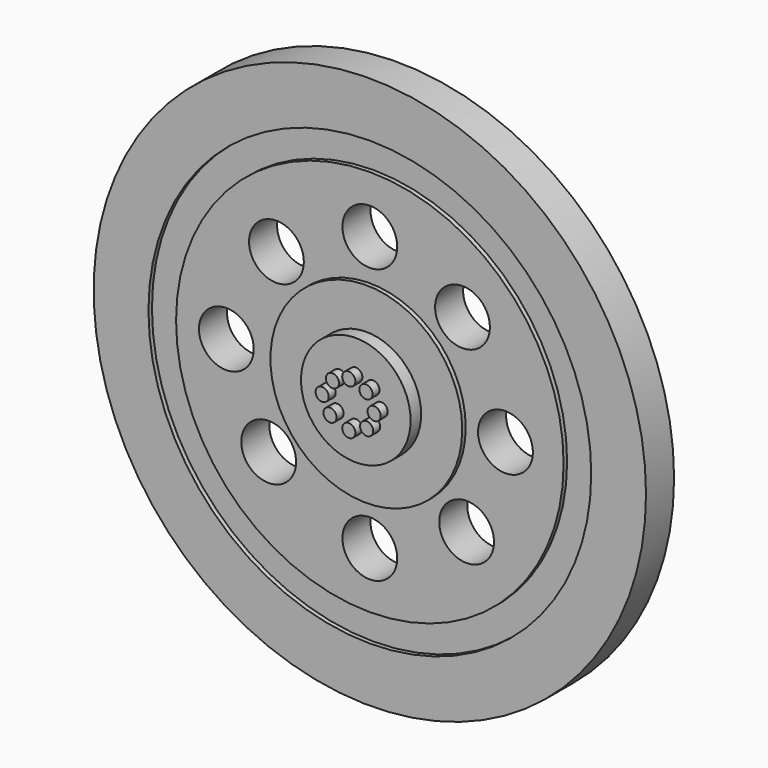
from build123d import *

# Parameters (mm, degrees)
F0_R      = 16.002
F1_DEPTH  = 2.032
F3_R      = 12.827
F3_R_2    = 11.2268
F4_DEPTH  = 0.254
F2_R      = 1.5875
F5_DEPTH  = 2.032
F6_R      = 5.55625
F7_DEPTH  = 0.254
F8_R      = 3.175
F9_DEPTH  = 0.762
F10_R     = 0.381
F11_DEPTH = 0.508


with BuildPart() as f1:
    # F0 (on Front) → F1 (new body)
    with BuildSketch(Plane.XZ):
        Circle(F0_R)
    extrude(amount=-F1_DEPTH)

    # F3 (on face) → F4 (cut)
    with BuildSketch(Plane.XZ):
        Circle(F3_R)
        Circle(F3_R_2, mode=Mode.SUBTRACT)
    extrude(amount=-F4_DEPTH, mode=Mode.SUBTRACT)

    # F2 (on face) → F5 (cut)
    with BuildSketch(Plane.XZ):
        with Locations((0, -7.9695228487)):
            Circle(F2_R)
        with Locations((-5.8604669757, -4.9584284425)):
            Circle(F2_R)
        with BuildLine():
            Line((-6.7264510825, 0), (-9.9014510825, 0))
            ThreePointArc((-9.9014510825, 0), (-8.3139510825, -1.5875), (-6.7264510825, 0))
        make_face()
        with BuildLine():
            ThreePointArc((-6.7264510825, 0), (-8.3139510825, 1.5875), (-9.9014510825, 0))
            Line((-9.9014510825, 0), (-6.7264510825, 0))
        make_face()
        with Locations((-5.4118158296, 5.3960969672)):
            Circle(F2_R)
        with Locations((0, 7.9223643988)):
            Circle(F2_R)
        with Locations((5.3672702052, 5.5701895617)):
            Circle(F2_R)
        with BuildLine():
            Line((6.2692415476, 0), (9.4442415476, 0))
            ThreePointArc((9.4442415476, 0), (7.8567415476, 1.5875), (6.2692415476, 0))
        make_face()
        with BuildLine():
            ThreePointArc((6.2692415476, 0), (7.8567415476, -1.5875), (9.4442415476, 0))
            Line((9.4442415476, 0), (6.2692415476, 0))
        make_face()
        with Locations((5.607039202, -5.3108036518)):
            Circle(F2_R)
    extrude(amount=-F5_DEPTH, mode=Mode.SUBTRACT)

    # F6 (on face) → F7 (join)
    with BuildSketch(Plane.XZ):
        Circle(F6_R)
    extrude(amount=F7_DEPTH)

    # F8 (on face) → F9 (join)
    with BuildSketch(Plane.XZ.offset(0.254)):
        Circle(F8_R)
    extrude(amount=F9_DEPTH)

    # F10 (on face) → F11 (join)
    with BuildSketch(Plane.XZ.offset(1.016)):
        with Locations((-1.543693963, 0)):
            Circle(F10_R)
        with Locations((-0.9479312136, 0.8902023229)):
            Circle(F10_R)
        with Locations((0, 1.2909881785)):
            Circle(F10_R)
        with Locations((0.9910054901, 0.9551946484)):
            Circle(F10_R)
        with Locations((1.4676158223, 0)):
            Circle(F10_R)
        with Locations((1.0343337624, -0.9079179104)):
            Circle(F10_R)
        with Locations((0, -1.3411998874)):
            Circle(F10_R)
        with Locations((-1.0887479328, -0.9079179104)):
            Circle(F10_R)
    extrude(amount=F11_DEPTH)


solid = f1.part
